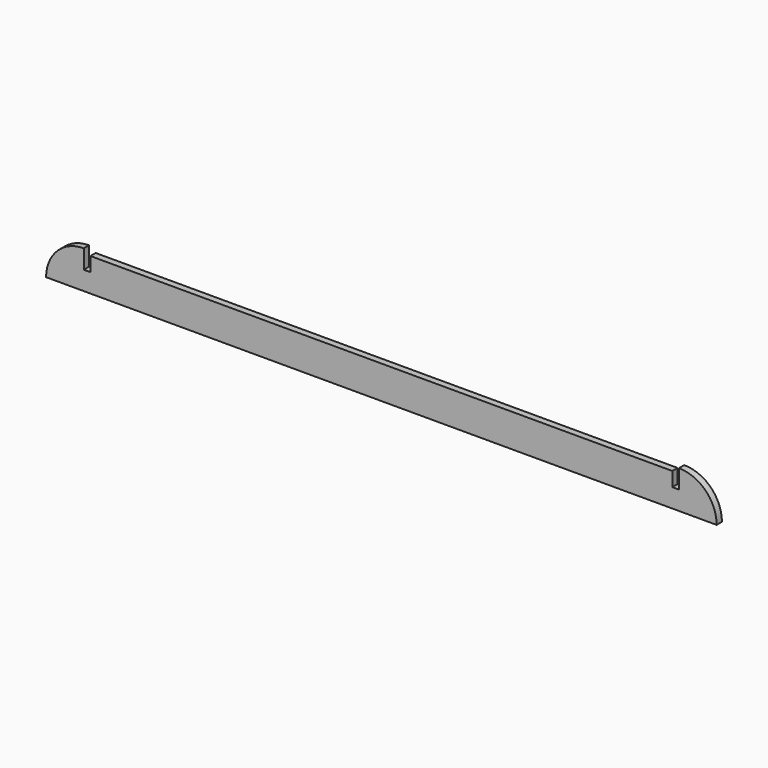
from build123d import *

# Parameters (mm, degrees)
F1_DEPTH = 10


with BuildPart() as f1:
    # F0 (on Front) → F1 (new body)
    with BuildSketch(Plane.XZ):
        with BuildLine():
            Line((-507, 0), (507, 0))
            ThreePointArc((507, 0), (490.305087, 40.305087), (450, 57))
            Line((450, 57), (450, 28.5))
            Line((450, 28.5), (440, 28.5))
            Line((440, 28.5), (440, 50))
            Line((440, 50), (-440, 50))
            Line((-440, 50), (-440, 28.5))
            Line((-440, 28.5), (-450, 28.5))
            Line((-450, 28.5), (-450, 57))
            ThreePointArc((-450, 57), (-490.305087, 40.305087), (-507, 0))
        make_face()
    extrude(amount=F1_DEPTH)


solid = f1.part
